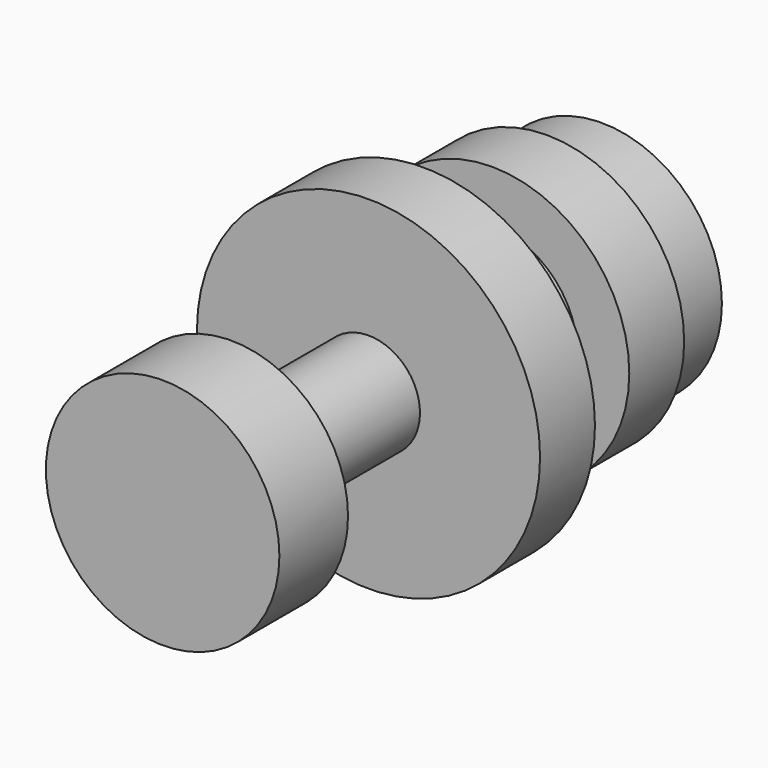
from build123d import *

# Parameters (mm, degrees)
F0_R      = 35
F1_DEPTH  = 20
F2_R      = 40
F2_R_2    = 35
F3_DEPTH  = 20
F4_R      = 25
F5_DEPTH  = 25
F6_R      = 50
F7_DEPTH  = 20
F8_R      = 15
F9_DEPTH  = 50
F10_R     = 34.0310746724
F10_R_2   = 15
F11_DEPTH = 25


with BuildPart() as f1:
    # F0 (on Front) → F1 (new body)
    with BuildSketch(Plane.XZ):
        Circle(F0_R)
    extrude(amount=F1_DEPTH)


with BuildPart() as f3:
    # F2 (on face) → F3 (new body)
    with BuildSketch(Plane.XZ.offset(20)):
        Circle(F2_R)
        Circle(F2_R_2, mode=Mode.SUBTRACT)
        Circle(F2_R_2)
    extrude(amount=F3_DEPTH)

    # F4 (on face) → F5 (join)
    with BuildSketch(Plane.XZ.offset(40)):
        Circle(F4_R)
    extrude(amount=F5_DEPTH)

    # F6 (on face) → F7 (join)
    with BuildSketch(Plane.XZ.offset(65)):
        Circle(F6_R)
    extrude(amount=F7_DEPTH)

    # F8 (on face) → F9 (join)
    with BuildSketch(Plane.XZ.offset(85)):
        Circle(F8_R)
    extrude(amount=F9_DEPTH)

    # F10 (on face) → F11 (join)
    with BuildSketch(Plane.XZ.offset(135)):
        Circle(F10_R)
        Circle(F10_R_2, mode=Mode.SUBTRACT)
        Circle(F10_R_2)
    extrude(amount=F11_DEPTH)


solid = Compound([f1.part, f3.part])
